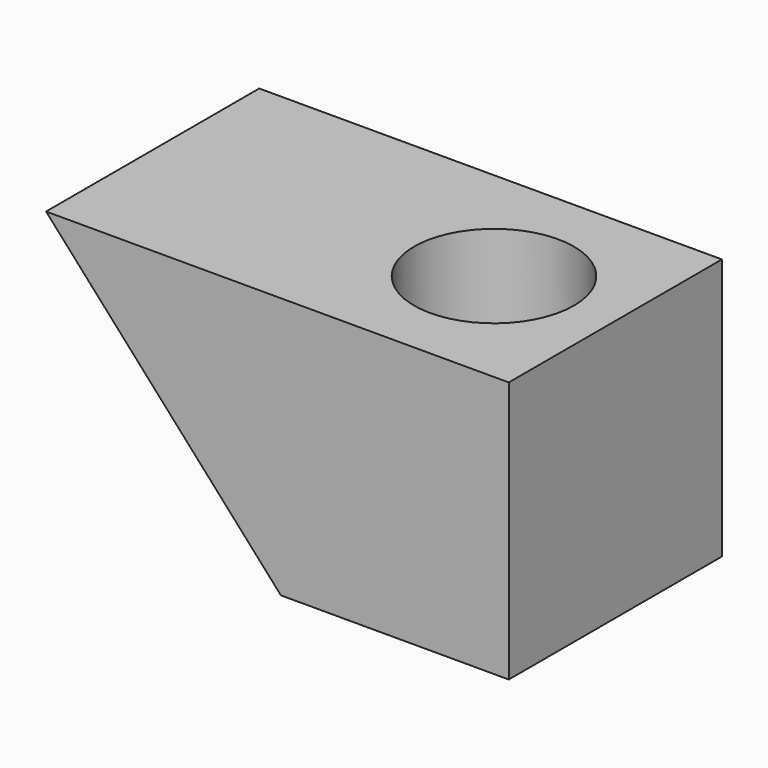
from build123d import *

# Parameters (mm, degrees)
F1_DEPTH = 25
F2_R     = 15
F3_DEPTH = 49.087306


with BuildPart() as f1:
    # F0 (on Front) → F1 (new body, symmetric)
    with BuildSketch(Plane.XZ):
        Polygon((-44.064272, 49.086306), (0, 0), (42.768266, 0), (42.768266, 49.086306), align=None)
    extrude(amount=F1_DEPTH, both=True)

    # F2 (on face) → F3 (cut, through all)
    with BuildSketch(Plane(origin=(0, 0, 0), x_dir=(1, 0, 0), z_dir=(0, 0, -1))):
        with Locations((20, 0)):
            Circle(F2_R)
    extrude(amount=-F3_DEPTH, mode=Mode.SUBTRACT)


solid = f1.part
